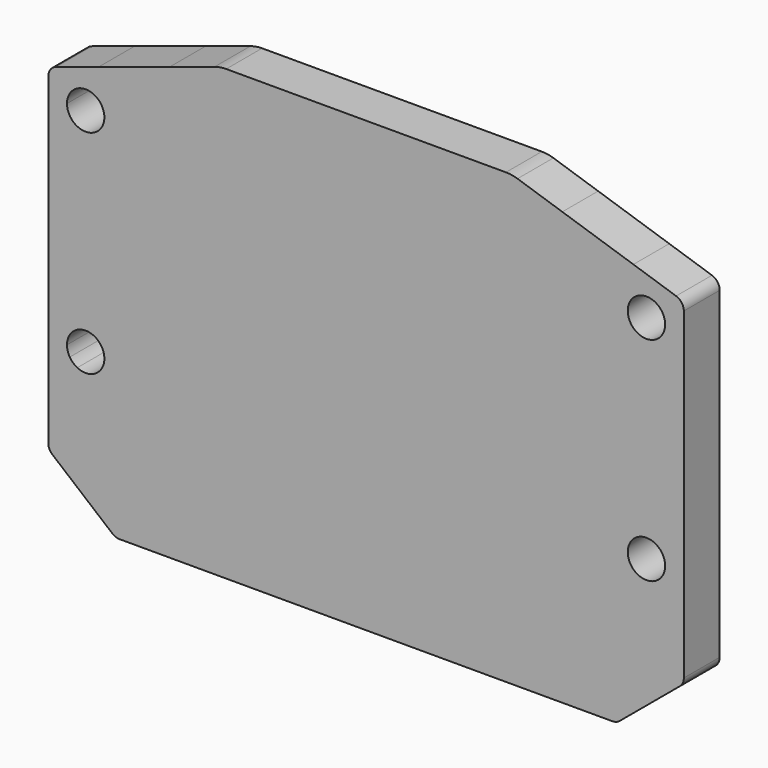
from build123d import *

# Parameters (mm, degrees)
F1_DEPTH = 12


with BuildPart() as f1:
    # F0 (on Front) → F1 (new body)
    with BuildSketch(Plane.XZ):
        with BuildLine():
            ThreePointArc((83.920553, -83.901291), (84.716768, -82.869093), (85, -81.596627))
            Line((85, -81.596627), (85, -63.001752))
            Line((85, -63.001752), (85, -43.001752))
            Line((85, -43.001752), (85, -23.001752))
            Line((85, -23.001752), (85, 1.998248))
            Line((85, 1.998248), (85, 4.821038))
            ThreePointArc((85, 4.821038), (84.427981, 6.583113), (82.930062, 7.673228))
            Line((82.930062, 7.673228), (71.507298, 11.398042))
            Line((71.507298, 11.398042), (62, 14.498248))
            Line((62, 14.498248), (52.492702, 17.598454))
            Line((52.492702, 17.598454), (40.510952, 21.505546))
            ThreePointArc((40.510952, 21.505546), (38.980302, 21.874305), (37.410746, 21.998248))
            Line((37.410746, 21.998248), (-37.410746, 21.998248))
            ThreePointArc((-37.410746, 21.998248), (-38.980302, 21.874305), (-40.510952, 21.505546))
            Line((-40.510952, 21.505546), (-52.492702, 17.598454))
            Line((-52.492702, 17.598454), (-62, 14.498248))
            Line((-62, 14.498248), (-71.507298, 11.398042))
            Line((-71.507298, 11.398042), (-82.930062, 7.673228))
            ThreePointArc((-82.930062, 7.673228), (-84.427981, 6.583113), (-85, 4.821038))
            Line((-85, 4.821038), (-85, 1.998248))
            Line((-85, 1.998248), (-85, -23.001752))
            Line((-85, -23.001752), (-85, -43.001752))
            Line((-85, -43.001752), (-85, -63.001752))
            Line((-85, -63.001752), (-85, -81.596627))
            ThreePointArc((-85, -81.596627), (-84.716768, -82.869093), (-83.920553, -83.901291))
            Line((-83.920553, -83.901291), (-67.834403, -97.306416))
            ThreePointArc((-67.834403, -97.306416), (-66.935126, -97.822567), (-65.91385, -98.001752))
            Line((-65.91385, -98.001752), (65.91385, -98.001752))
            ThreePointArc((65.91385, -98.001752), (66.935126, -97.822567), (67.834403, -97.306416))
            Line((67.834403, -97.306416), (83.920553, -83.901291))
        make_face()
        with BuildLine():
            ThreePointArc((38.990151, 16.936276), (39.376448, 16.859172), (39.755476, 16.751897))
            Line((39.755476, 16.751897), (76.550103, 4.753649))
            ThreePointArc((76.550103, 4.753649), (77.942127, 4.042757), (79.046635, 2.936791))
            ThreePointArc((79.046635, 2.936791), (79.75569, 1.54383), (80, 0))
            Line((80, 0), (80, -56.821412))
            ThreePointArc((80, -56.821412), (79.809692, -58.187745), (79.253254, -59.450068))
            ThreePointArc((79.253254, -59.450068), (78.373045, -60.512289), (77.236068, -61.293548))
            Line((77.236068, -61.293548), (24.875388, -87.473888))
            ThreePointArc((24.875388, -87.473888), (24.34317, -87.702486), (23.788085, -87.867997))
            ThreePointArc((23.788085, -87.867997), (23.217583, -87.968201), (22.63932, -88.001752))
            Line((22.63932, -88.001752), (0, -88.001752))
            Line((0, -88.001752), (-22.63932, -88.001752))
            ThreePointArc((-22.63932, -88.001752), (-23.217583, -87.968201), (-23.788085, -87.867997))
            ThreePointArc((-23.788085, -87.867997), (-24.34317, -87.702486), (-24.875388, -87.473888))
            Line((-24.875388, -87.473888), (-77.236068, -61.293548))
            ThreePointArc((-77.236068, -61.293548), (-78.373045, -60.512289), (-79.253254, -59.450068))
            ThreePointArc((-79.253254, -59.450068), (-79.809692, -58.187745), (-80, -56.821412))
            Line((-80, -56.821412), (-80, 0))
            ThreePointArc((-80, 0), (-79.75569, 1.54383), (-79.046635, 2.936791))
            ThreePointArc((-79.046635, 2.936791), (-77.942127, 4.042757), (-76.550103, 4.753649))
            Line((-76.550103, 4.753649), (-39.755476, 16.751897))
            ThreePointArc((-39.755476, 16.751897), (-39.376448, 16.859172), (-38.990151, 16.936276))
            ThreePointArc((-38.990151, 16.936276), (-38.598983, 16.982731), (-38.205373, 16.998248))
            Line((-38.205373, 16.998248), (0, 16.998248))
            Line((0, 16.998248), (38.205373, 16.998248))
            ThreePointArc((38.205373, 16.998248), (38.598983, 16.982731), (38.990151, 16.936276))
        make_face(mode=Mode.SUBTRACT)
        with BuildLine():
            Line((76.550103, 4.753649), (39.755476, 16.751897))
            ThreePointArc((39.755476, 16.751897), (39.376448, 16.859172), (38.990151, 16.936276))
            ThreePointArc((38.990151, 16.936276), (38.598983, 16.982731), (38.205373, 16.998248))
            Line((38.205373, 16.998248), (0, 16.998248))
            Line((0, 16.998248), (-38.205373, 16.998248))
            ThreePointArc((-38.205373, 16.998248), (-38.598983, 16.982731), (-38.990151, 16.936276))
            ThreePointArc((-38.990151, 16.936276), (-39.376448, 16.859172), (-39.755476, 16.751897))
            Line((-39.755476, 16.751897), (-76.550103, 4.753649))
            ThreePointArc((-76.550103, 4.753649), (-72.063209, 4.046635), (-70, 0))
            ThreePointArc((-70, 0), (-75, -5), (-80, 0))
            Line((-80, 0), (-80, -56.821412))
            ThreePointArc((-80, -56.821412), (-75, -51.821412), (-70, -56.821412))
            ThreePointArc((-70, -56.821412), (-72.371344, -61.074666), (-77.236068, -61.293548))
            Line((-77.236068, -61.293548), (-24.875388, -87.473888))
            ThreePointArc((-24.875388, -87.473888), (-24.34317, -87.702486), (-23.788085, -87.867997))
            ThreePointArc((-23.788085, -87.867997), (-23.217583, -87.968201), (-22.63932, -88.001752))
            Line((-22.63932, -88.001752), (0, -88.001752))
            Line((0, -88.001752), (22.63932, -88.001752))
            ThreePointArc((22.63932, -88.001752), (23.217583, -87.968201), (23.788085, -87.867997))
            ThreePointArc((23.788085, -87.867997), (24.34317, -87.702486), (24.875388, -87.473888))
            Line((24.875388, -87.473888), (77.236068, -61.293548))
            ThreePointArc((77.236068, -61.293548), (70.746746, -54.192757), (80, -56.821412))
            Line((80, -56.821412), (80, 0))
            ThreePointArc((80, 0), (70.953365, -2.936791), (76.550103, 4.753649))
        make_face()
    extrude(amount=F1_DEPTH)


solid = f1.part
